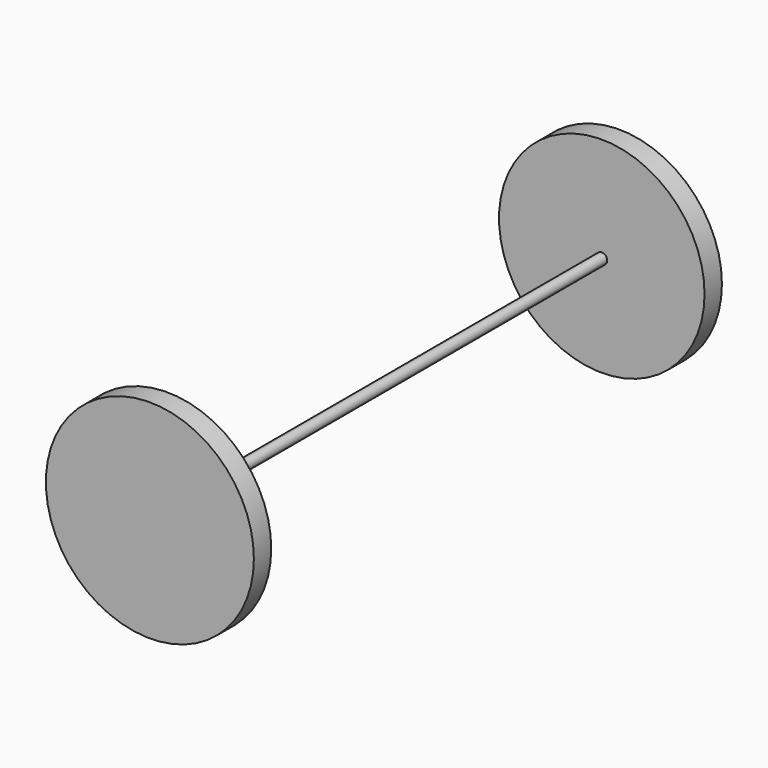
from build123d import *

# Parameters (mm, degrees)
F0_R     = 0.5
F1_DEPTH = 50
F3_R     = 9.458043
F4_DEPTH = 2
F6_R     = 9.572507
F7_DEPTH = 2


with BuildPart() as f1:
    # F0 (on Front) → F1 (new body)
    with BuildSketch(Plane.XZ):
        with Locations((0, 8.707933)):
            Circle(F0_R)
    extrude(amount=F1_DEPTH)

    # F3 (on Front) → F4 (join)
    with BuildSketch(Plane.XZ):
        with Locations((0, 8.897236)):
            Circle(F3_R)
    extrude(amount=-F4_DEPTH)

    # F6 (on offset) → F7 (join)
    with BuildSketch(Plane.XZ.offset(50)):
        with Locations((0, 8.626235)):
            Circle(F6_R)
    extrude(amount=F7_DEPTH)


solid = f1.part
